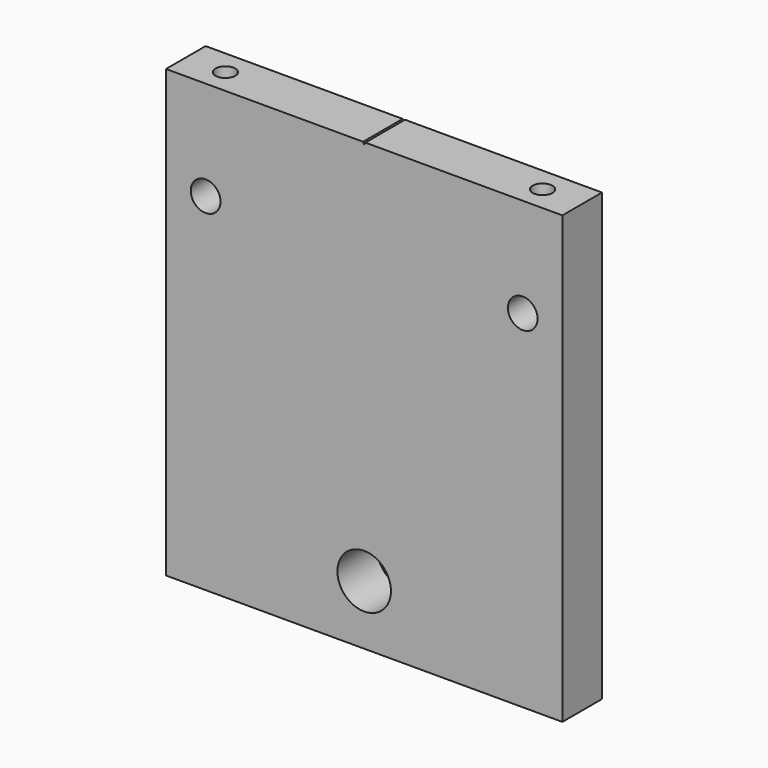
from build123d import *

# Parameters (mm, degrees)
F0_W      = 40
F0_H      = 45
F1_DEPTH  = 5
F2_R      = 1.5
F3_DEPTH  = 25
F6_DEPTH  = 25
F7_R      = 1
F8_DEPTH  = 5
F9_R      = 2.7
F10_DEPTH = 25


with BuildPart() as f1:
    # F0 (on Front) → F1 (new body)
    with BuildSketch(Plane.XZ):
        Rectangle(F0_W, F0_H)
    extrude(amount=F1_DEPTH)

    # F2 (on face) → F3 (cut)
    with BuildSketch(Plane.XZ.offset(5)):
        with Locations((16, 12.5)):
            Circle(F2_R)
        with Locations((-16, 12.5)):
            Circle(F2_R)
    extrude(amount=-F3_DEPTH, mode=Mode.SUBTRACT)

    # F5 (on face) → F6 (cut)
    with BuildSketch(Plane.XZ.offset(5)):
        Polygon((0.173205, 22.6), (-0.173205, 22.6), (0, 22.3), align=None)
    extrude(amount=-F6_DEPTH, mode=Mode.SUBTRACT)

    # F7 (on face) → F8 (cut)
    with BuildSketch(Plane.XY.offset(22.5)):
        with Locations((16, -2.5)):
            Circle(F7_R)
        with Locations((-16, -2.5)):
            Circle(F7_R)
    extrude(amount=-F8_DEPTH, mode=Mode.SUBTRACT)

    # F9 (on face) → F10 (cut)
    with BuildSketch(Plane.XZ.offset(5)):
        with Locations((0, -16.5)):
            Circle(F9_R)
    extrude(amount=-F10_DEPTH, mode=Mode.SUBTRACT)


solid = f1.part
